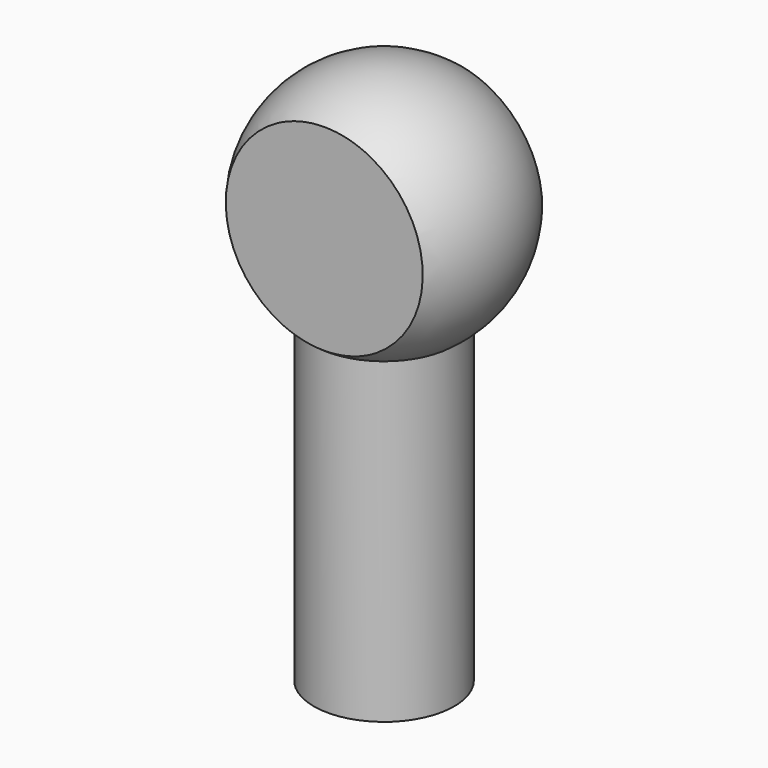
from build123d import *

# Parameters (mm, degrees)
F4_START = -30.001
F3_W     = 29.8317782581
F3_H     = 14.1467591748
F4_DEPTH = 51.4043297554


with BuildPart() as f1:
    # F0 (on Front) → F1 (revolve)
    with BuildSketch(Plane.XZ):
        with BuildLine():
            Line((-6.6485689022, 30.0630871207), (-6.6485689022, 0))
            Line((-6.6485689022, 0), (0, 0))
            Line((0, 0), (0, 51.4023297554))
            ThreePointArc((0, 51.4023297554), (-11.1754948959, 43.1788736793), (-6.6485689022, 30.0630871207))
        make_face()
    revolve(axis=Axis((0, 0, -8.4801893681), (0, 0, 1)))

    # F3 (on offset) → F4 (intersect)
    with BuildSketch(Plane.XY.offset(30).offset(F4_START)):
        Rectangle(F3_W, F3_H)
    extrude(amount=F4_DEPTH, mode=Mode.INTERSECT)


solid = f1.part
